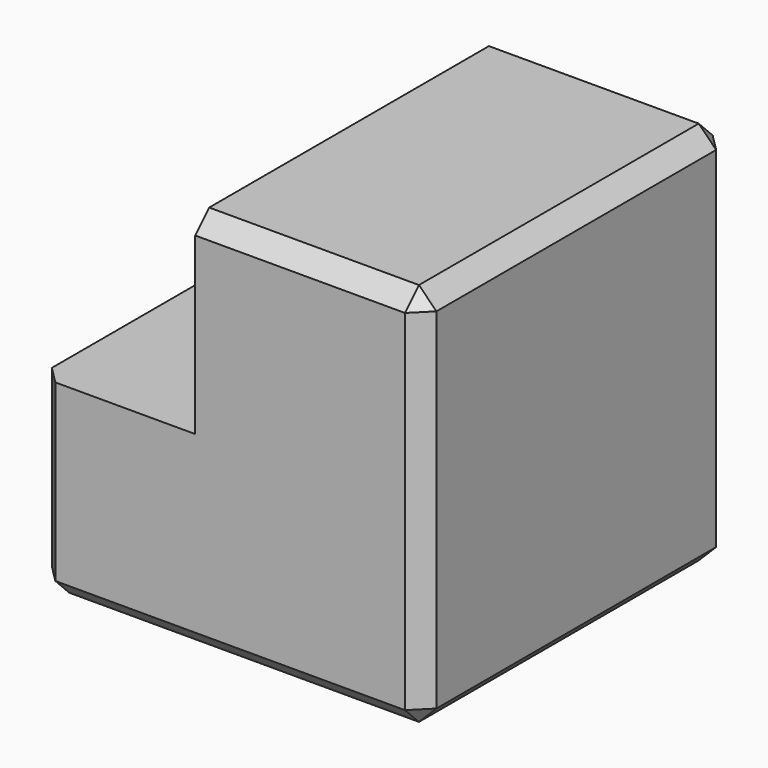
from build123d import *

# Parameters (mm, degrees)
F1_DEPTH      = 22
F1_DEPTH_BACK = 22
F2_SIZE       = 2
F3_R          = 2.25
F4_DEPTH      = 10


with BuildPart() as f1:
    # F0 (on Front) → F1 (new body, two sides)
    with BuildSketch(Plane.XZ) as f1_sk:
        Polygon((22, -22), (22, 22), (-4, 22), (-4, 0), (-22, 0), (-22, -22), align=None)
    extrude(amount=F1_DEPTH)
    extrude(f1_sk.sketch, amount=-F1_DEPTH_BACK)

    # F2
    f2_edges = [f1.edges().sort_by_distance(p)[0] for p in [
        (22, 0, 22),
        (9, -22, 22),
        (9, 22, 22),
        (22, 22, 0),
        (22, -22, 0),
        (-22, -22, -11),
        (-22, 22, -11),
        (22, 0, -22),
        (0, 22, -22),
        (0, -22, -22),
        (-22, 0, -22),
    ]]
    chamfer(f2_edges, length=F2_SIZE)

    # F3 (on face) → F4 (cut)
    with BuildSketch(Plane(origin=(0, 0, -22), x_dir=(1, 0, 0), z_dir=(0, 0, -1))):
        with Locations((-16, 16)):
            Circle(F3_R)
        with Locations((16, 16)):
            Circle(F3_R)
        with Locations((16, -16)):
            Circle(F3_R)
        with Locations((-16, -16)):
            Circle(F3_R)
    extrude(amount=-F4_DEPTH, mode=Mode.SUBTRACT)


solid = f1.part
